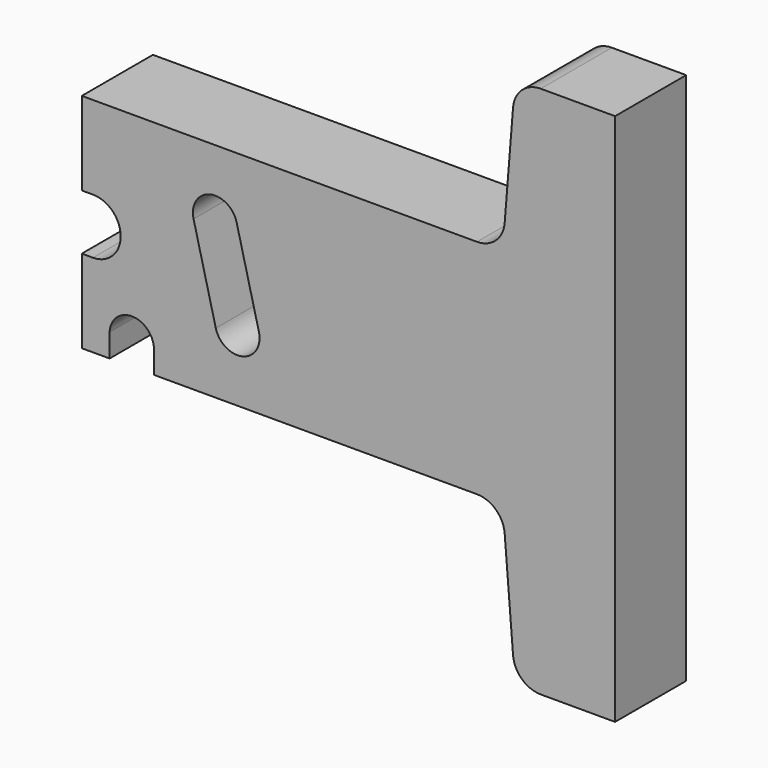
from build123d import *

# Parameters (mm, degrees)
F1_DEPTH = 12.7
F3_DEPTH = 25.401
F5_DEPTH = 25.4


with BuildPart() as f1:
    # F0 (on Front) → F1 (new body, symmetric)
    with BuildSketch(Plane.XZ):
        with BuildLine():
            Line((76.2, -76.2), (76.2, 0))
            Line((76.2, 0), (76.2, 76.2))
            Line((76.2, 76.2), (54.9515881949, 76.2))
            ThreePointArc((54.9515881949, 76.2), (49.567872747, 74.095124986), (47.0394765128, 68.8968461044))
            Line((47.0394765128, 68.8968461044), (44.6467865895, 39.0531538956))
            ThreePointArc((44.6467865895, 39.0531538956), (42.1183903553, 33.854875014), (36.7346749074, 31.75))
            Line((36.7346749074, 31.75), (-76.2, 31.75))
            Line((-76.2, 31.75), (-76.2, 0))
            Line((-76.2, 0), (-76.2, -31.75))
            Line((-76.2, -31.75), (36.7346749074, -31.75))
            ThreePointArc((36.7346749074, -31.75), (42.1183903553, -33.854875014), (44.6467865895, -39.0531538956))
            Line((44.6467865895, -39.0531538956), (47.0394765128, -68.8968461044))
            ThreePointArc((47.0394765128, -68.8968461044), (49.567872747, -74.095124986), (54.9515881949, -76.2))
            Line((54.9515881949, -76.2), (76.2, -76.2))
        make_face()
    extrude(amount=F1_DEPTH, both=True)

    # F2 (on face) → F3 (cut, through all)
    with BuildSketch(Plane.XZ.offset(12.7)):
        with BuildLine():
            ThreePointArc((-65.0875, 0), (-67.4123399243, 5.6126600757), (-73.025, 7.9375))
            Line((-73.025, 7.9375), (-76.2, 7.9375))
            Line((-76.2, 7.9375), (-76.2, -7.9375))
            Line((-76.2, -7.9375), (-73.025, -7.9375))
            ThreePointArc((-73.025, -7.9375), (-67.4123399243, -5.6126600757), (-65.0875, 0))
        make_face()
    extrude(amount=-F3_DEPTH, mode=Mode.SUBTRACT)

    # F4 (on face) → F5 (cut)
    with BuildSketch(Plane.XZ.offset(12.7)):
        with BuildLine():
            ThreePointArc((-25.4, -12.7), (-25.4475770151, -11.9241362755), (-25.5895951241, -11.159898781))
            ThreePointArc((-25.5895951241, -11.159898781), (-33.290101219, -6.5395951241), (-37.9104048759, -14.240101219))
            ThreePointArc((-37.9104048759, -14.240101219), (-30.9741362755, -19.0024229849), (-25.4, -12.7))
        make_face()
        with BuildLine():
            ThreePointArc((-31.9395951241, 14.240101219), (-31.7975770151, 13.4758637245), (-31.75, 12.7))
            ThreePointArc((-31.75, 12.7), (-37.3241362755, 6.3975770151), (-44.2604048759, 11.159898781))
            Line((-44.2604048759, 11.159898781), (-37.9104048759, -14.240101219))
            ThreePointArc((-37.9104048759, -14.240101219), (-33.290101219, -6.5395951241), (-25.5895951241, -11.159898781))
            Line((-25.5895951241, -11.159898781), (-31.9395951241, 14.240101219))
        make_face()
        with BuildLine():
            ThreePointArc((-44.2604048759, 11.159898781), (-37.3241362755, 6.3975770151), (-31.75, 12.7))
            ThreePointArc((-31.75, 12.7), (-31.7975770151, 13.4758637245), (-31.9395951241, 14.240101219))
            ThreePointArc((-31.9395951241, 14.240101219), (-39.640101219, 18.8604048759), (-44.2604048759, 11.159898781))
        make_face()
        with BuildLine():
            Line((-55.5874992575, -31.75), (-55.5874992575, -24.8370918305))
            ThreePointArc((-55.5874992575, -24.8370918305), (-62.0395651932, -19.0512714315), (-68.2549589201, -25.0906218393))
            Line((-68.2549589201, -25.0906218393), (-68.2549589201, -31.75))
            Line((-68.2549589201, -31.75), (-55.5874992575, -31.75))
        make_face()
    extrude(amount=-F5_DEPTH, mode=Mode.SUBTRACT)


solid = f1.part
